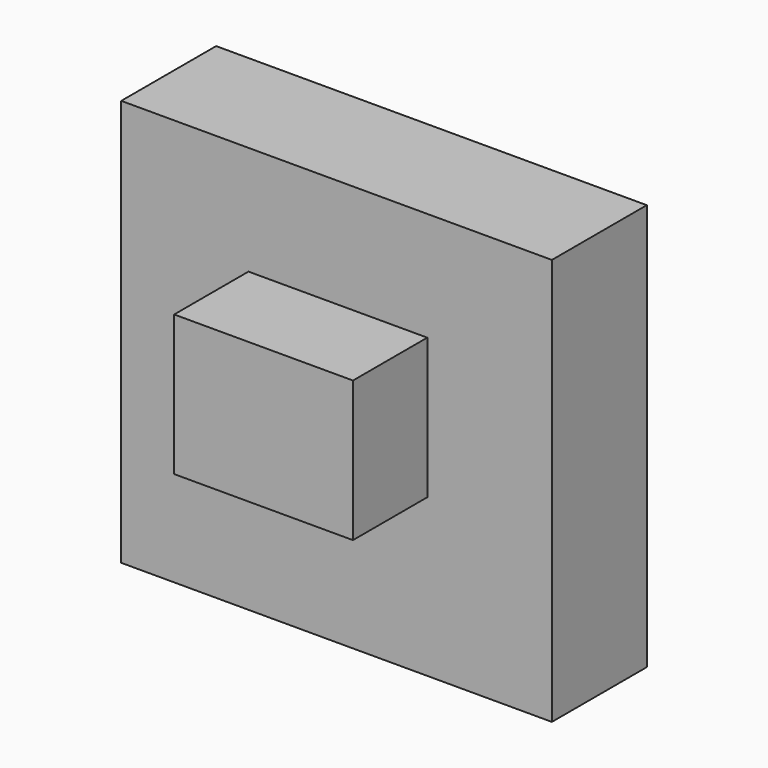
from build123d import *

# Parameters (mm, degrees)
F0_W     = 28.8429111242
F0_H     = 43.4003770351
F1_DEPTH = 31.9269895554
F2_W     = 48.1303855777
F2_H     = 37.8293991089
F3_DEPTH = 25


with BuildPart() as f1:
    # F0 (on Front) → F1 (new body)
    with BuildSketch(Plane.XZ):
        Polygon((59.1244995594, 55.7888075709), (-56.8066239357, 55.7888075709), (-28.8429111242, 17.2355771065), (0, 17.2355771065), align=None)
        Polygon((-28.8429111242, 17.2355771065), (-56.8066239357, 55.7888075709), (-56.8066239357, -53.69836092), (-28.8429111242, -26.1647999287), align=None)
        Polygon((-28.8429111242, -26.1647999287), (-56.8066239357, -53.69836092), (59.1244995594, -53.69836092), (0, -26.1647999287), align=None)
        Polygon((59.1244995594, -53.69836092), (59.1244995594, 55.7888075709), (0, 17.2355771065), (0, -26.1647999287), align=None)
        with Locations((-14.4214555621, -4.4646114111)):
            Rectangle(F0_W, F0_H)
    extrude(amount=-F1_DEPTH)

    # F2 (on Front) → F3 (join)
    with BuildSketch(Plane.XZ):
        with Locations((1.5096403658, 7.5481086969)):
            Rectangle(F2_W, F2_H)
    extrude(amount=F3_DEPTH)


solid = f1.part
